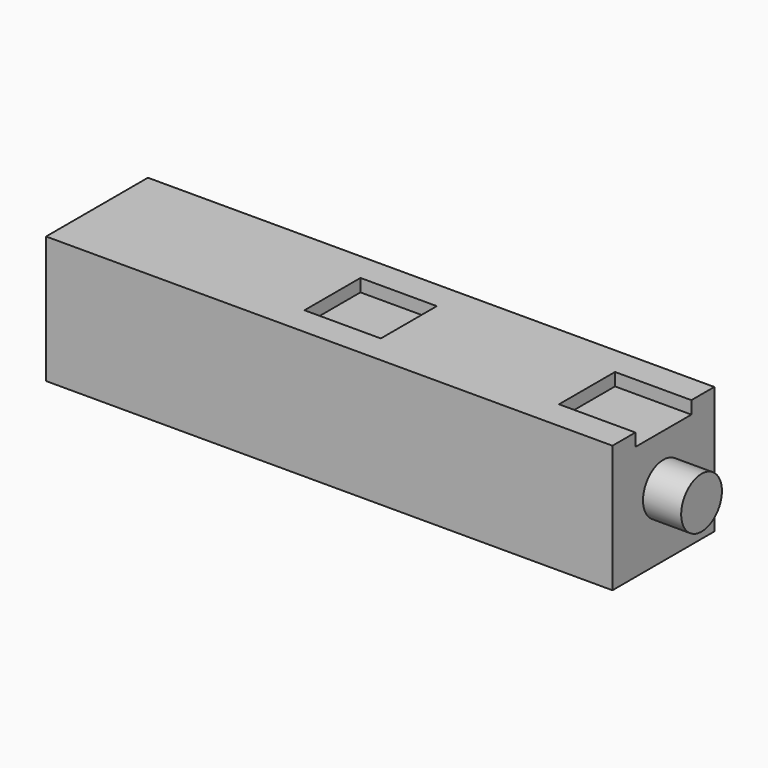
from build123d import *

# Parameters (mm, degrees)
SKETCH_W                 = 95
SKETCH_H                 = 20
PAD_DEPTH                = 20
SKETCH001_W              = 20
SKETCH001_H              = 20
SKETCH001_R              = 4
POCKET_DEPTH             = 6
SKETCH003_W              = 12
SKETCH003_H              = 11
POCKET001_DEPTH          = 2
CLONE_PLACEMENT_ANGLE    = 270
CLONE001_PLACEMENT_ANGLE = 90


with BuildPart() as part:
    # Sketch → Pad (new body)
    with BuildSketch(Plane.XY):
        Rectangle(SKETCH_W, SKETCH_H)
    extrude(amount=-PAD_DEPTH)

    # Sketch001 (on Face2 of Pad) → Pocket (cut)
    with BuildSketch(Plane.YZ.offset(47.5)):
        with Locations((0, -10)):
            Rectangle(SKETCH001_W, SKETCH001_H)
        with Locations((0, -10)):
            Circle(SKETCH001_R, mode=Mode.SUBTRACT)
    extrude(amount=-POCKET_DEPTH, mode=Mode.SUBTRACT)

    # Sketch003 (on Face2 of Pocket) → Pocket001 (cut)
    with BuildSketch(Plane.XY):
        with Locations((35.5, 0)):
            Rectangle(SKETCH003_W, SKETCH003_H)
        with Locations((-4.5, 0)):
            Rectangle(SKETCH003_W, SKETCH003_H)
    extrude(amount=-POCKET001_DEPTH, mode=Mode.SUBTRACT)


with BuildPart() as part_1:
    # Clone placement: moved
    add(part.part.moved(Location((-10, 0, -47.5))).rotate(Axis((-10, 0, -47.5), (0, 1, 0)), CLONE_PLACEMENT_ANGLE))


with BuildPart() as part_2:
    # Clone001 placement: moved
    add(part_1.part.moved(Location((6, 0, -10))).rotate(Axis((6, 0, -10), (0, 1, 0)), CLONE001_PLACEMENT_ANGLE))


solid = part_2.part
